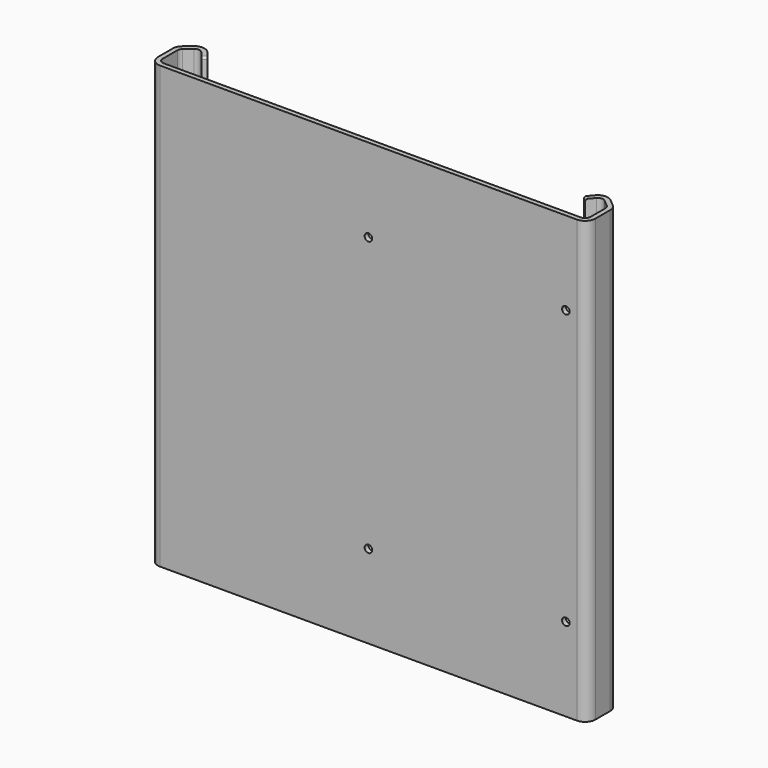
from build123d import *

# Parameters (mm, degrees)
F1_DEPTH = 158.75
F2_R     = 3.69316
F3_R     = 1.98374
F4_R     = 1.35255
F5_DEPTH = 1.70942
F6_R     = 0.762


with BuildPart() as f1:
    # F0 (on Top) → F1 (new body)
    with BuildSketch(Plane.XY):
        Polygon((0, -9.525), (0, 0), (4.632677, 3.932751), (7.97125, 0), (9.274422, 1.106282), (4.829567, 6.342205), (-1.70942, 0.791159), (-1.70942, -11.23442), (155.721346, -11.23442), (155.721346, 0.791159), (149.18236, 6.342205), (144.737505, 1.106282), (146.040676, 0), (149.379249, 3.932751), (154.011926, 0), (154.011926, -9.525), align=None)
    extrude(amount=F1_DEPTH)

    # F2
    f2_edges = [f1.edges().sort_by_distance(p)[0] for p in [
        (149.18236, 6.342205, 79.375),
        (155.721346, 0.791159, 79.375),
        (155.721346, -11.23442, 79.375),
        (-1.70942, -11.23442, 79.375),
        (-1.70942, 0.791159, 79.375),
        (4.829567, 6.342205, 79.375),
    ]]
    fillet(f2_edges, radius=F2_R)

    # F3
    f3_edges = [f1.edges().sort_by_distance(p)[0] for p in [
        (149.379249, 3.932751, 79.375),
        (154.011926, 0, 79.375),
        (154.011926, -9.525, 79.375),
        (0, -9.525, 79.375),
        (0, 0, 79.375),
        (4.632677, 3.932751, 79.375),
    ]]
    fillet(f3_edges, radius=F3_R)

    # F4 (on face) → F5 (cut, through all)
    with BuildSketch(Plane.XZ.offset(11.23442)):
        with Locations((148.059436, 128.712112)):
            Circle(F4_R)
        with Locations((77.005963, 128.712112)):
            Circle(F4_R)
        with Locations((77.005963, 30.037888)):
            Circle(F4_R)
        with Locations((148.059436, 30.037888)):
            Circle(F4_R)
    extrude(amount=-F5_DEPTH, mode=Mode.SUBTRACT)

    # F6
    f6_edges = [f1.edges().sort_by_distance(p)[0] for p in [
        (145.38909, 0.553141, 158.75),
        (145.38909, 0.553141, 0),
        (8.622836, 0.553141, 0),
        (8.622836, 0.553141, 158.75),
    ]]
    fillet(f6_edges, radius=F6_R)


solid = f1.part
